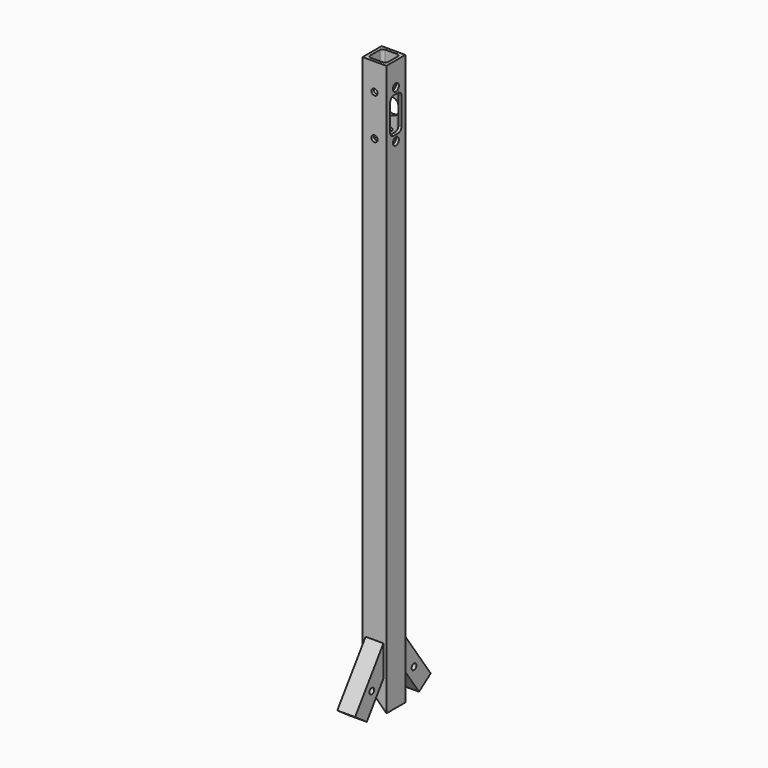
from build123d import *

# Parameters (mm, degrees)
SKETCH001_W     = 25.4
SKETCH001_H     = 25.4
PAD001_DEPTH    = 609.6
SKETCH002_R     = 8.89
SKETCH002_R_2   = 1.6
POCKET_DEPTH    = 5.08
SKETCH003_R     = 4
POCKET001_DEPTH = 25.401
POCKET002_DEPTH = 25.401
POCKET006_DEPTH = 25.401
PAD004_DEPTH    = 19.05
SKETCH020_R     = 3.302
POCKET012_DEPTH = 7.62
SKETCH021_R     = 3.175
POCKET013_DEPTH = 22.226


with BuildPart() as part:
    # Sketch001 → Pad001 (new body)
    with BuildSketch(Plane.XY):
        Rectangle(SKETCH001_W, SKETCH001_H)
        with BuildLine():
            ThreePointArc((-9.525, -6.35), (-8.595064, -8.595064), (-6.35, -9.525))
            Line((6.35, -9.525), (-6.35, -9.525))
            ThreePointArc((6.35, -9.525), (8.595064, -8.595064), (9.525, -6.35))
            Line((9.525, 6.35), (9.525, -6.35))
            ThreePointArc((9.525, 6.35), (8.595064, 8.595064), (6.35, 9.525))
            Line((-6.35, 9.525), (6.35, 9.525))
            ThreePointArc((-6.35, 9.525), (-8.595064, 8.595064), (-9.525, 6.35))
            Line((-9.525, -6.35), (-9.525, 6.35))
        make_face(mode=Mode.SUBTRACT)
    extrude(amount=PAD001_DEPTH)

    # Sketch002 (on Face2 of Pad001) → Pocket (cut)
    with BuildSketch(Plane(origin=(0, 12.7, 0), x_dir=(-1, 0, 0), z_dir=(0, 1, 0))):
        with Locations((0, 558.8)):
            Circle(SKETCH002_R)
        with Locations((0, 580.72031)):
            Circle(SKETCH002_R_2)
        with Locations((0, 536.87969)):
            Circle(SKETCH002_R_2)
    extrude(amount=-POCKET_DEPTH, mode=Mode.SUBTRACT)

    # Sketch003 (on Face1 of Pocket) → Pocket001 (cut, through all)
    with BuildSketch(Plane(origin=(-12.7, 0, 0), x_dir=(0, -1, 0), z_dir=(-1, 0, 0))):
        with Locations((0, 584.2)):
            Circle(SKETCH003_R)
        with Locations((0, 533.4)):
            Circle(SKETCH003_R)
    extrude(amount=-POCKET001_DEPTH, mode=Mode.SUBTRACT)

    # Sketch004 (on Face2 of Pocket001) → Pocket002 (cut, through all)
    with BuildSketch(Plane.XZ.offset(12.7)):
        Polygon((12.7, 0), (-12.7, 0), (-12.7, 25.4), align=None)
    extrude(amount=-POCKET002_DEPTH, mode=Mode.SUBTRACT)

    # Sketch010 (on Face8 of Pocket002) → Pocket006 (cut, through all)
    with BuildSketch(Plane.YZ.offset(12.7)):
        with BuildLine():
            ThreePointArc((-7.62, 544.5125), (-6.225096, 541.144904), (-2.8575, 539.75))
            Line((2.8575, 539.75), (-2.8575, 539.75))
            ThreePointArc((2.8575, 539.75), (6.225096, 541.144904), (7.62, 544.5125))
            Line((7.62, 573.0875), (7.62, 544.5125))
            ThreePointArc((7.62, 573.0875), (6.225096, 576.455096), (2.8575, 577.85))
            Line((-2.8575, 577.85), (2.8575, 577.85))
            ThreePointArc((-2.8575, 577.85), (-6.225096, 576.455096), (-7.62, 573.0875))
            Line((-7.62, 544.5125), (-7.62, 573.0875))
        make_face()
    extrude(amount=-POCKET006_DEPTH, mode=Mode.SUBTRACT)

    # Sketch014 (on DatumPlane) → Pad004 (join)
    with BuildSketch(Plane(origin=(-9.525, 0, 0), x_dir=(0, -1, 0), z_dir=(-1, 0, 0))):
        Polygon((12.7, 31.75), (12.7, 64.962661), (50.536436, 10.926631), (34.931589, 0), align=None)
        Polygon((-12.7, 64.962661), (-12.7, 31.75), (-34.931589, 0), (-50.536436, 10.926631), align=None)
    extrude(amount=-PAD004_DEPTH)

    # Sketch020 (on Face3 of Pad004) → Pocket012 (cut)
    with BuildSketch(Plane.XZ.offset(12.7)):
        with Locations((0, 536.87969)):
            Circle(SKETCH020_R)
        with Locations((0, 580.72031)):
            Circle(SKETCH020_R)
    extrude(amount=-POCKET012_DEPTH, mode=Mode.SUBTRACT)

    # Sketch021 (on Face29 of Pocket012) → Pocket013 (cut, through all)
    with BuildSketch(Plane.YZ.offset(9.525)):
        with Locations((-28.165171, 26.269777)):
            Circle(SKETCH021_R)
        with Locations((28.165171, 26.269777)):
            Circle(SKETCH021_R)
    extrude(amount=-POCKET013_DEPTH, mode=Mode.SUBTRACT)


solid = part.part
